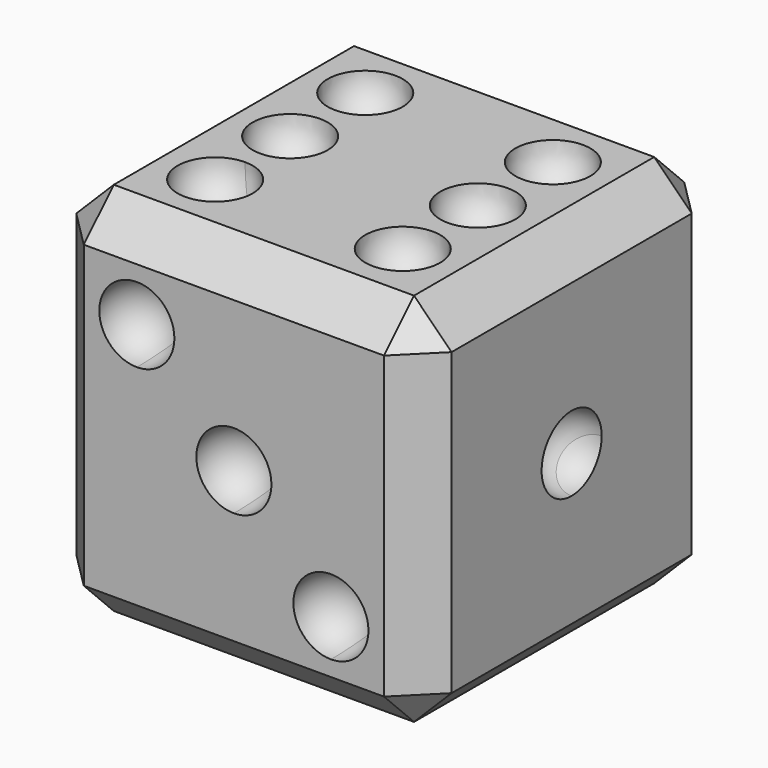
from build123d import *

# Parameters (mm, degrees)
F0_W     = 50.8
F0_H     = 50.8
F1_DEPTH = 50.8
F2_SIZE  = 5.08


with BuildPart() as f1:
    # F0 (on Top) → F1 (new body)
    with BuildSketch(Plane.XY):
        with Locations((25.4, 25.4)):
            Rectangle(F0_W, F0_H)
    extrude(amount=F1_DEPTH)

    # F2
    f2_edges = [f1.edges().sort_by_distance(p)[0] for p in [
        (25.4, 0, 50.8),
        (25.4, 0, 0),
        (50.8, 0, 25.4),
        (0, 50.8, 25.4),
        (0, 25.4, 50.8),
        (0, 25.4, 0),
        (0, 0, 25.4),
        (50.8, 50.8, 25.4),
        (50.8, 25.4, 50.8),
        (50.8, 25.4, 0),
        (25.4, 50.8, 50.8),
        (25.4, 50.8, 0),
    ]]
    chamfer(f2_edges, length=F2_SIZE)

    # F3 (on face) → F4 (revolve, cut)
    with BuildSketch(Plane.YZ.offset(50.8)):
        with BuildLine():
            ThreePointArc((30.48, 25.4), (27.3440318364, 30.0933080252), (21.8078975516, 28.9921024484))
            Line((21.8078975516, 28.9921024484), (28.9921024484, 21.8078975516))
            ThreePointArc((28.9921024484, 21.8078975516), (30.0933080252, 23.4559681636), (30.48, 25.4))
        make_face()
    revolve(axis=Axis((50.8, 25.4, 25.4), (0, 0.7071067812, -0.7071067812)), mode=Mode.SUBTRACT)

    # F5 (on face) → F6 (revolve, cut)
    with BuildSketch(Plane(origin=(0, 0, 0), x_dir=(0, -1, 0), z_dir=(-1, 0, 0))):
        with BuildLine():
            ThreePointArc((-33.4557951031, 38.5357951031), (-36.5917632667, 43.2291031283), (-42.1278975516, 42.1278975516))
            Line((-42.1278975516, 42.1278975516), (-34.9436926547, 34.9436926547))
            ThreePointArc((-34.9436926547, 34.9436926547), (-33.842487078, 36.5917632667), (-33.4557951031, 38.5357951031))
        make_face()
        with BuildLine():
            ThreePointArc((-7.1842048969, 12.2642048969), (-10.3201730604, 16.957512922), (-15.8563073453, 15.8563073453))
            Line((-15.8563073453, 15.8563073453), (-8.6721024484, 8.6721024484))
            ThreePointArc((-8.6721024484, 8.6721024484), (-7.5708968717, 10.3201730604), (-7.1842048969, 12.2642048969))
        make_face()
    revolve(axis=Axis((0, 25.4, 25.4), (0, -0.7071067812, -0.7071067812)), mode=Mode.SUBTRACT)

    # F7 (on face) → F8 (revolve, cut)
    with BuildSketch(Plane(origin=(0, 0, 0), x_dir=(1, 0, 0), z_dir=(0, 0, -1))):
        with BuildLine():
            ThreePointArc((17.3442048969, -12.2642048969), (14.2082367333, -7.5708968717), (8.6721024484, -8.6721024484))
            Line((8.6721024484, -8.6721024484), (15.8563073453, -15.8563073453))
            ThreePointArc((15.8563073453, -15.8563073453), (16.957512922, -14.2082367333), (17.3442048969, -12.2642048969))
        make_face()
        with BuildLine():
            Line((34.9436926547, -34.9436926547), (42.1278975516, -42.1278975516))
            ThreePointArc((42.1278975516, -42.1278975516), (43.2291031283, -40.4798269396), (43.6157951031, -38.5357951031))
            ThreePointArc((43.6157951031, -38.5357951031), (40.4798269396, -33.842487078), (34.9436926547, -34.9436926547))
        make_face()
    revolve(axis=Axis((25.4, 25.4, 0), (-0.7071067812, -0.7071067812, 0)), mode=Mode.SUBTRACT)

    # F7 (on face) → F9 (revolve, cut)
    with BuildSketch(Plane(origin=(0, 0, 0), x_dir=(1, 0, 0), z_dir=(0, 0, -1))):
        with BuildLine():
            ThreePointArc((15.8563073453, -34.9436926547), (8.6721024484, -34.9436926547), (8.6721024484, -42.1278975516))
            Line((8.6721024484, -42.1278975516), (15.8563073453, -34.9436926547))
        make_face()
        with BuildLine():
            Line((34.9436926547, -15.8563073453), (42.1278975516, -8.6721024484))
            ThreePointArc((42.1278975516, -8.6721024484), (34.9436926547, -8.6721024484), (34.9436926547, -15.8563073453))
        make_face()
    revolve(axis=Axis((25.4, 25.4, 0), (0.7071067812, -0.7071067812, 0)), mode=Mode.SUBTRACT)

    # F10 (on face) → F11 (revolve, cut)
    with BuildSketch(Plane(origin=(0, 50.8, 0), x_dir=(-1, 0, 0), z_dir=(0, 1, 0))):
        with BuildLine():
            ThreePointArc((-33.4557951031, 38.5357951031), (-36.5917632667, 43.2291031283), (-42.1278975516, 42.1278975516))
            Line((-42.1278975516, 42.1278975516), (-34.9436926547, 34.9436926547))
            ThreePointArc((-34.9436926547, 34.9436926547), (-33.842487078, 36.5917632667), (-33.4557951031, 38.5357951031))
        make_face()
        with BuildLine():
            ThreePointArc((-15.8563073453, 15.8563073453), (-15.8563073453, 8.6721024484), (-8.6721024484, 8.6721024484))
            Line((-8.6721024484, 8.6721024484), (-15.8563073453, 15.8563073453))
        make_face()
    revolve(axis=Axis((25.4, 50.8, 25.4), (-0.7071067812, 0, -0.7071067812)), mode=Mode.SUBTRACT)

    # F10 (on face) → F12 (revolve, cut)
    with BuildSketch(Plane(origin=(0, 50.8, 0), x_dir=(-1, 0, 0), z_dir=(0, 1, 0))):
        with BuildLine():
            Line((-34.9436926547, 15.8563073453), (-42.1278975516, 8.6721024484))
            ThreePointArc((-42.1278975516, 8.6721024484), (-36.5917632667, 7.5708968717), (-33.4557951031, 12.2642048969))
            ThreePointArc((-33.4557951031, 12.2642048969), (-33.842487078, 14.2082367333), (-34.9436926547, 15.8563073453))
        make_face()
        with BuildLine():
            Line((-21.8078975516, 21.8078975516), (-25.4, 25.4))
            Line((-25.4, 25.4), (-28.9921024484, 21.8078975516))
            ThreePointArc((-28.9921024484, 21.8078975516), (-25.4, 20.32), (-21.8078975516, 21.8078975516))
        make_face()
        with BuildLine():
            Line((-21.8078975516, 28.9921024484), (-25.4, 25.4))
            Line((-25.4, 25.4), (-21.8078975516, 21.8078975516))
            ThreePointArc((-21.8078975516, 21.8078975516), (-20.7066919748, 23.4559681636), (-20.32, 25.4))
            ThreePointArc((-20.32, 25.4), (-20.7066919748, 27.3440318364), (-21.8078975516, 28.9921024484))
        make_face()
        with BuildLine():
            ThreePointArc((-7.1842048969, 38.5357951031), (-7.5708968717, 40.4798269396), (-8.6721024484, 42.1278975516))
            Line((-8.6721024484, 42.1278975516), (-15.8563073453, 34.9436926547))
            ThreePointArc((-15.8563073453, 34.9436926547), (-10.3201730604, 33.842487078), (-7.1842048969, 38.5357951031))
        make_face()
    revolve(axis=Axis((25.4, 50.8, 25.4), (-0.7071067812, 0, 0.7071067812)), mode=Mode.SUBTRACT)

    # F13 (on face) → F14 (revolve, cut)
    with BuildSketch(Plane.XZ):
        with BuildLine():
            ThreePointArc((17.3442048969, 38.5357951031), (14.2082367333, 43.2291031283), (8.6721024484, 42.1278975516))
            Line((8.6721024484, 42.1278975516), (15.8563073453, 34.9436926547))
            ThreePointArc((15.8563073453, 34.9436926547), (16.957512922, 36.5917632667), (17.3442048969, 38.5357951031))
        make_face()
        with BuildLine():
            ThreePointArc((30.48, 25.4), (27.3440318364, 30.0933080252), (21.8078975516, 28.9921024484))
            Line((21.8078975516, 28.9921024484), (28.9921024484, 21.8078975516))
            ThreePointArc((28.9921024484, 21.8078975516), (30.0933080252, 23.4559681636), (30.48, 25.4))
        make_face()
        with BuildLine():
            Line((34.9436926547, 15.8563073453), (42.1278975516, 8.6721024484))
            ThreePointArc((42.1278975516, 8.6721024484), (43.2291031283, 10.3201730604), (43.6157951031, 12.2642048969))
            ThreePointArc((43.6157951031, 12.2642048969), (40.4798269396, 16.957512922), (34.9436926547, 15.8563073453))
        make_face()
    revolve(axis=Axis((25.4, 0, 25.4), (0.7071067812, 0, -0.7071067812)), mode=Mode.SUBTRACT)

    # F15 (on face) → F16 (revolve, cut)
    with BuildSketch(Plane.XY.offset(50.8)):
        with BuildLine():
            ThreePointArc((9.1078975516, 41.6921024484), (9.1078975516, 34.5078975516), (16.2921024484, 34.5078975516))
            Line((16.2921024484, 34.5078975516), (9.1078975516, 41.6921024484))
        make_face()
        with BuildLine():
            ThreePointArc((34.5078975516, 16.2921024484), (34.5078975516, 9.1078975516), (41.6921024484, 9.1078975516))
            Line((41.6921024484, 9.1078975516), (34.5078975516, 16.2921024484))
        make_face()
    revolve(axis=Axis((25.4, 25.4, 50.8), (-0.7071067812, 0.7071067812, 0)), mode=Mode.SUBTRACT)

    # F15 (on face) → F17 (revolve, cut)
    with BuildSketch(Plane.XY.offset(50.8)):
        with BuildLine():
            Line((17.78, 25.4), (7.62, 25.4))
            ThreePointArc((7.62, 25.4), (12.7, 20.32), (17.78, 25.4))
        make_face()
        with BuildLine():
            ThreePointArc((33.02, 25.4), (38.1, 20.32), (43.18, 25.4))
            Line((43.18, 25.4), (33.02, 25.4))
        make_face()
    revolve(axis=Axis((25.4, 25.4, 50.8), (-1, 0, 0)), mode=Mode.SUBTRACT)

    # F15 (on face) → F18 (revolve, cut)
    with BuildSketch(Plane.XY.offset(50.8)):
        with BuildLine():
            Line((16.2921024484, 16.2921024484), (9.1078975516, 9.1078975516))
            ThreePointArc((9.1078975516, 9.1078975516), (14.6440318364, 8.0066919748), (17.78, 12.7))
            ThreePointArc((17.78, 12.7), (17.3933080252, 14.6440318364), (16.2921024484, 16.2921024484))
        make_face()
        with BuildLine():
            Line((34.5078975516, 34.5078975516), (41.6921024484, 41.6921024484))
            ThreePointArc((41.6921024484, 41.6921024484), (34.5078975516, 41.6921024484), (34.5078975516, 34.5078975516))
        make_face()
    revolve(axis=Axis((25.4, 25.4, 50.8), (-0.7071067812, -0.7071067812, 0)), mode=Mode.SUBTRACT)


solid = f1.part
